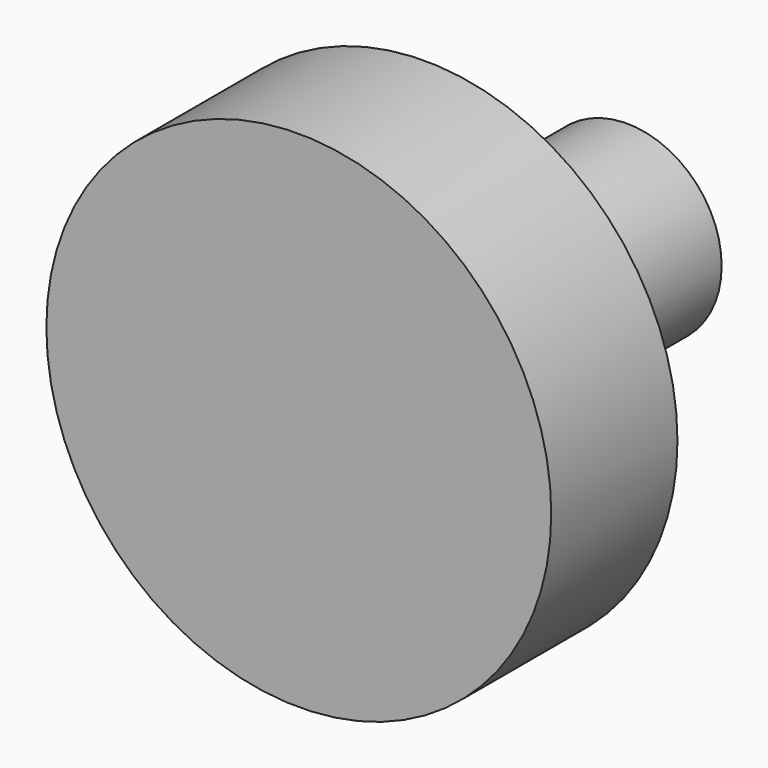
from build123d import *

# Parameters (mm, degrees)
SKETCH_R     = 80
PAD_DEPTH    = 50
SKETCH001_R  = 30
PAD001_DEPTH = 80


with BuildPart() as part:
    # Sketch → Pad (new body)
    with BuildSketch(Plane.XZ):
        Circle(SKETCH_R)
    extrude(amount=PAD_DEPTH)

    # Sketch001 → Pad001 (join)
    with BuildSketch(Plane.XZ):
        Circle(SKETCH001_R)
    extrude(amount=-PAD001_DEPTH)


solid = part.part
